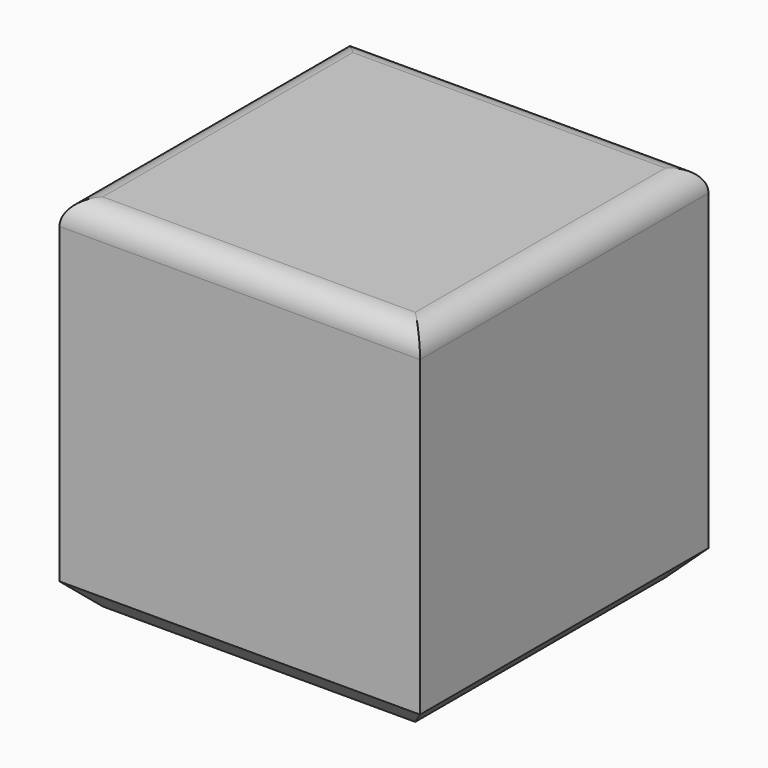
from build123d import *

# Parameters (mm, degrees)
F0_W     = 76.2
F0_H     = 76.2
F1_DEPTH = 76.2
F2_R     = 5.08
F3_SIZE  = 5.08


with BuildPart() as f1:
    # F0 (on Front) → F1 (new body)
    with BuildSketch(Plane.XZ):
        with Locations((38.1, 38.1)):
            Rectangle(F0_W, F0_H)
    extrude(amount=F1_DEPTH)

    # F2
    f2_edges = [f1.edges().sort_by_distance(p)[0] for p in [
        (76.2, -38.1, 76.2),
        (0, -38.1, 76.2),
        (38.1, 0, 76.2),
        (38.1, -76.2, 76.2),
    ]]
    fillet(f2_edges, radius=F2_R)

    # F3
    f3_edges = [f1.edges().sort_by_distance(p)[0] for p in [
        (0, -38.1, 0),
        (76.2, -38.1, 0),
        (38.1, 0, 0),
        (38.1, -76.2, 0),
    ]]
    chamfer(f3_edges, length=F3_SIZE)


solid = f1.part
